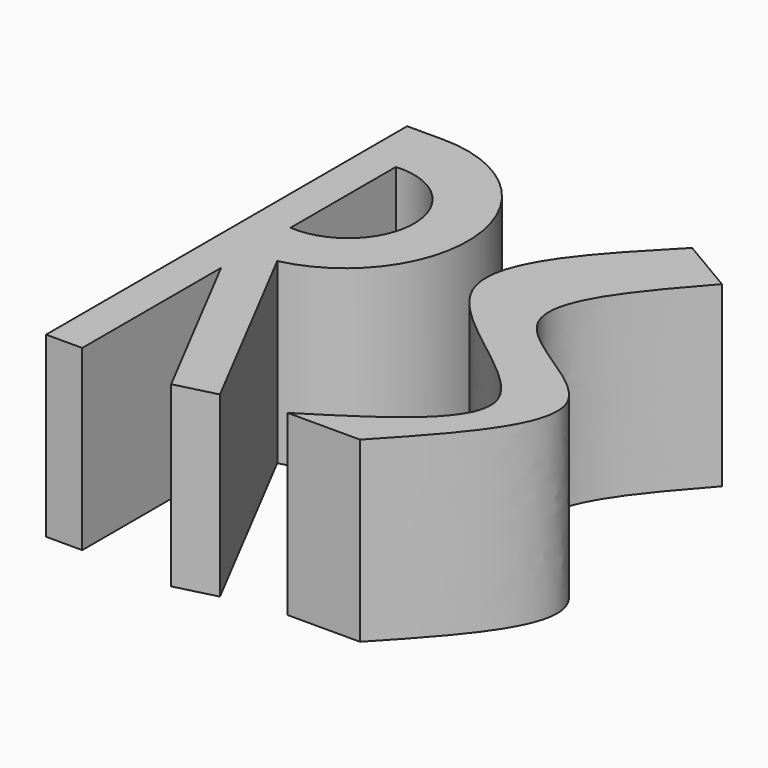
from build123d import *

# Parameters (mm, degrees)
F1_DEPTH = 34


with BuildPart() as f1:
    # F0 (on Top) → F1 (new body)
    with BuildSketch(Plane.XY):
        Polygon((-58.855265379, 39.7894755006), (-65.7631605864, 39.7894755006), (-65.7631605864, -46.4210547507), (-58.855265379, -46.4210547507), (-58.855265379, -13.2631594315), (-58.855265379, -6.9078952074), (-58.855265379, 3.3157898579), (-58.855265379, 28.4605268389), align=None)
        with BuildLine():
            ThreePointArc((-53.6813728957, -6.3274321014), (-35.652149585, 19.0439661321), (-58.855265379, 39.7894755006))
            Line((-58.855265379, 39.7894755006), (-58.855265379, 28.4605268389))
            ThreePointArc((-58.855265379, 28.4605268389), (-45.3083707484, 15.8881583484), (-58.855265379, 3.3157898579))
            Line((-58.855265379, 3.3157898579), (-58.855265379, -6.9078952074))
            ThreePointArc((-58.855265379, -6.9078952074), (-56.2520893935, -6.7623256474), (-53.6813728957, -6.3274321014))
        make_face()
        with BuildLine():
            Line((-33.4342122078, -45.3157946467), (-53.6813728957, -6.3274321014))
            ThreePointArc((-53.6813728957, -6.3274321014), (-56.2520893935, -6.7623256474), (-58.855265379, -6.9078952074))
            Line((-58.855265379, -6.9078952074), (-58.855265379, -13.2631594315))
            Line((-58.855265379, -13.2631594315), (-41.1894203563, -47.2808857205))
            Line((-41.1894203563, -47.2808857205), (-33.4342122078, -45.3157946467))
        make_face()
    extrude(amount=F1_DEPTH)


with BuildPart() as f1b:
    # F0 (on Top) → F1, piece 2 (new body)
    with BuildSketch(Plane.XY):
        with BuildLine():
            Line((2.7631602716, 29.2894747108), (-8.0131590366, 35.6447398663))
            add(Edge.make_bspline(
                [(-8.0131590366, 35.6447398663), (-8.3380996575, 35.3130309961), (-8.6630402784, 34.9813221258), (-8.9875565952, 34.6496528079)],
                knots=[0, 0, 0, 0, 0.0104392104, 0.0104392104, 0.0104392104, 0.0104392104], degree=3))
            add(Edge.make_bspline(
                [(-8.9875565952, 34.6496528079), (-19.1962093039, 24.2159805814), (-39.1673849495, 3.0088962137), (15.1242588993, -20.5025263488), (-9.788086857, -36.1129322973), (-21.8289475888, -43.6578951776)],
                knots=[0.0104392104, 0.0104392104, 0.0104392104, 0.0104392104, 0.3388364846, 0.6804404576, 1, 1, 1, 1], degree=3))
            Line((-21.8289475888, -43.6578951776), (-8.0131590366, -43.6578951776))
            add(Edge.make_bspline(
                [(2.7631602716, 29.2894747108), (-5.7902096466, 19.5630593403), (-22.3814929069, 0.696377078), (20.7812861649, -13.0126247707), (1.9425434447, -33.0622683997), (-8.0131590366, -43.6578951776)],
                knots=[0, 0, 0, 0, 0.3341185388, 0.6481019029, 1, 1, 1, 1], degree=3))
        make_face()
    extrude(amount=F1_DEPTH)


solid = Compound([f1.part, f1b.part])
